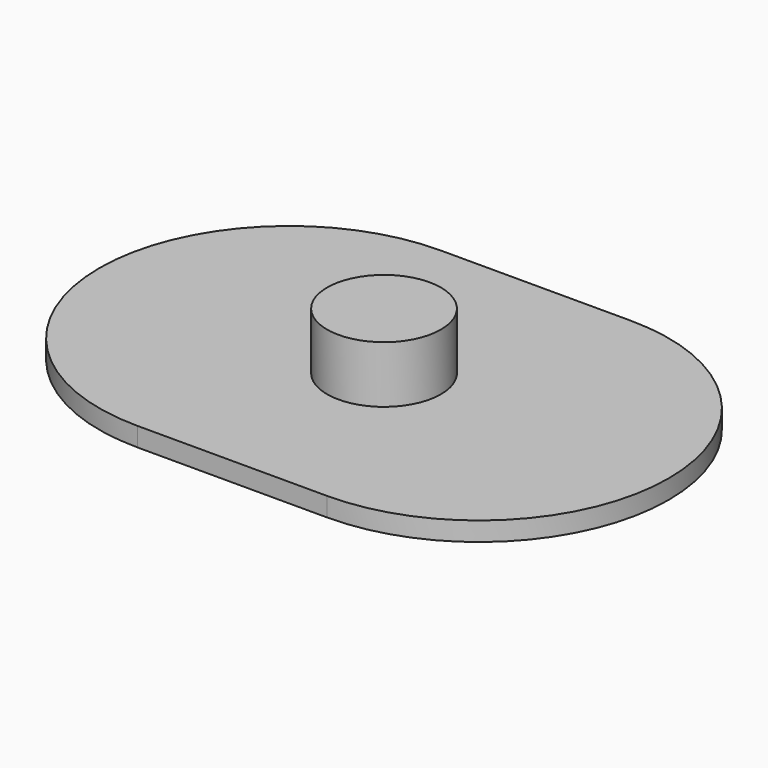
from build123d import *

# Parameters (mm, degrees)
PAD_DEPTH    = 0.5
SKETCH_R     = 1.5
PAD001_DEPTH = 1.5


with BuildPart() as part:
    # Sketch002 → Pad (new body)
    with BuildSketch(Plane.XY.offset(1.4)):
        with BuildLine():
            ThreePointArc((-2.5, 5), (-7.5, 0), (-2.5, -5))
            Line((-2.5, -5), (2.5, -5))
            ThreePointArc((2.5, -5), (7.5, 0), (2.5, 5))
            Line((-2.5, 5), (2.5, 5))
        make_face()
    extrude(amount=PAD_DEPTH)

    # Sketch (on Face6 of Pad) → Pad001 (join)
    with BuildSketch(Plane.XY.offset(1.9)):
        Circle(SKETCH_R)
    extrude(amount=PAD001_DEPTH)


solid = part.part
